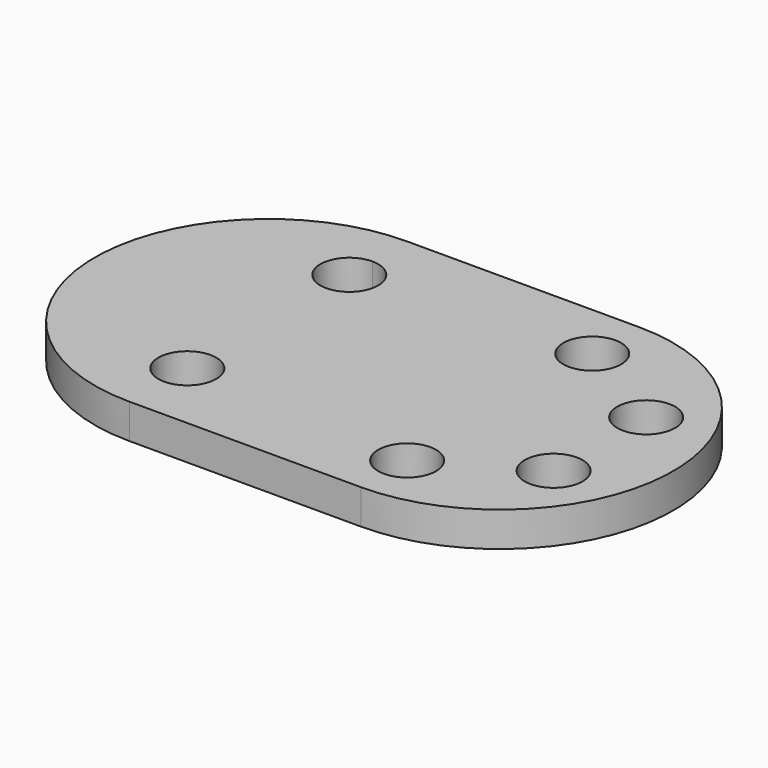
from build123d import *

# Parameters (mm, degrees)
F0_R     = 5
F1_DEPTH = 6


with BuildPart() as f1:
    # F0 (on Top) → F1 (new body)
    with BuildSketch(Plane.XY):
        with BuildLine():
            ThreePointArc((20, -30), (50, 0), (20, 30))
            Line((20, 30), (-20, 30))
            ThreePointArc((-20, 30), (-50, 0), (-20, -30))
            Line((-20, -30), (20, -30))
        make_face()
        with Locations((-20, -17.5)):
            Circle(F0_R, mode=Mode.SUBTRACT)
        with Locations((20, -20)):
            Circle(F0_R, mode=Mode.SUBTRACT)
        with Locations((37.320508, -10)):
            Circle(F0_R, mode=Mode.SUBTRACT)
        with BuildLine():
            ThreePointArc((-15, 17.5), (-23.535534, 13.964466), (-20, 22.5))
            ThreePointArc((-20, 22.5), (-16.464466, 21.035534), (-15, 17.5))
        make_face(mode=Mode.SUBTRACT)
        with Locations((37.320508, 10)):
            Circle(F0_R, mode=Mode.SUBTRACT)
        with Locations((20, 20)):
            Circle(F0_R, mode=Mode.SUBTRACT)
    extrude(amount=F1_DEPTH)


solid = f1.part
